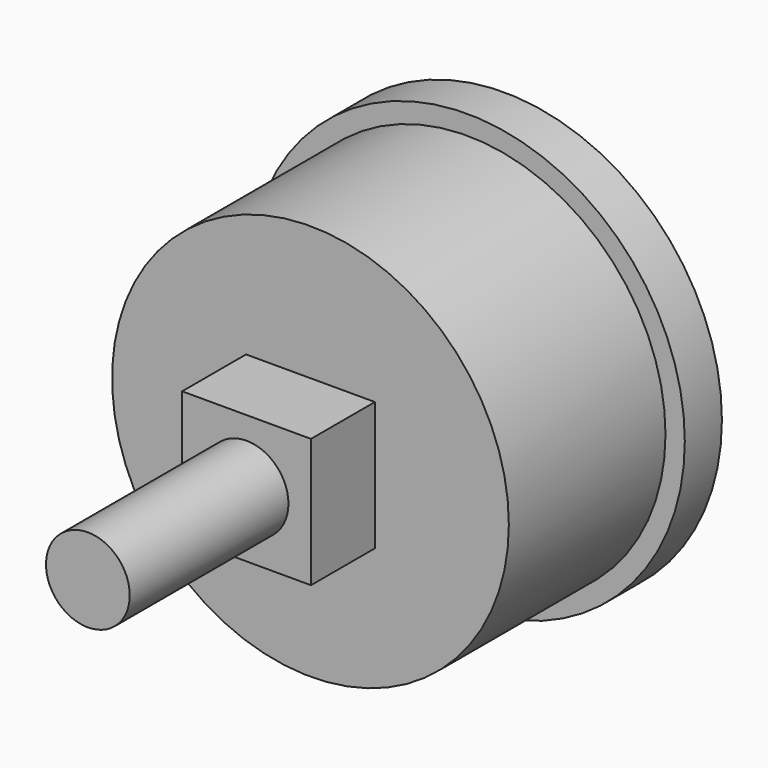
from build123d import *

# Parameters (mm, degrees)
F0_R     = 21.463
F0_R_2   = 19.558
F1_DEPTH = 4.572
F0_W     = 12.7
F0_H     = 12.7
F2_DEPTH = 23.876
F0_R_3   = 4.1275
F3_DEPTH = 31.75
F4_DEPTH = 51.308


with BuildPart() as f1:
    # F0 (on Front) → F1 (new body)
    with BuildSketch(Plane.XZ):
        Circle(F0_R)
        Circle(F0_R_2, mode=Mode.SUBTRACT)
    extrude(amount=F1_DEPTH)

    # F0 (on Front) → F2 (join)
    with BuildSketch(Plane.XZ):
        Circle(F0_R_2)
        Rectangle(F0_W, F0_H, mode=Mode.SUBTRACT)
    extrude(amount=F2_DEPTH)

    # F0 (on Front) → F3 (join)
    with BuildSketch(Plane.XZ):
        Rectangle(F0_W, F0_H)
        Circle(F0_R_3, mode=Mode.SUBTRACT)
    extrude(amount=F3_DEPTH)

    # F0 (on Front) → F4 (join)
    with BuildSketch(Plane.XZ):
        Circle(F0_R_3)
    extrude(amount=F4_DEPTH)


solid = f1.part
